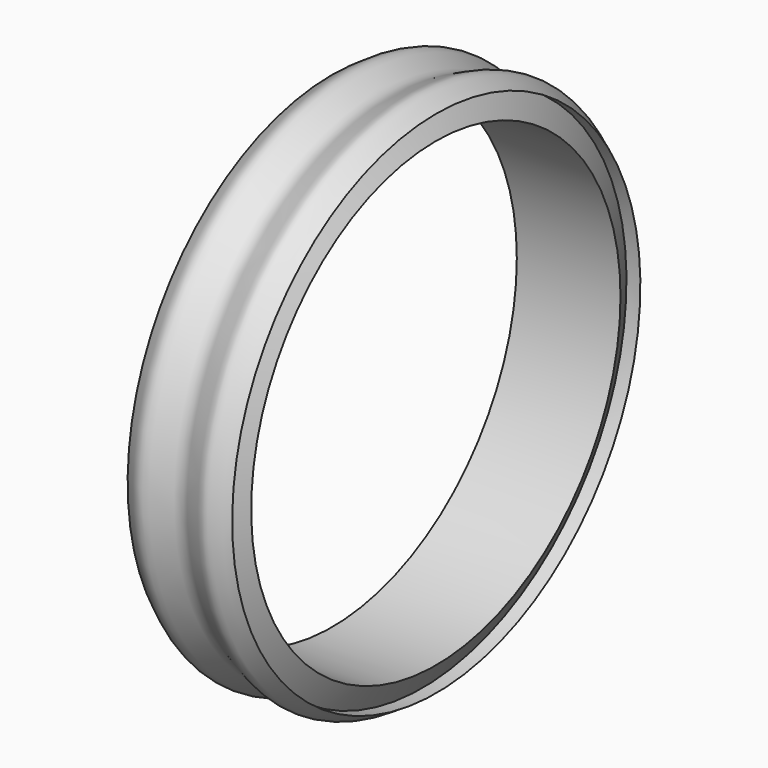
from build123d import *

# Parameters (mm, degrees)
F2_R     = 133
F3_DEPTH = 60


with BuildPart() as f1:
    # F0 (on Front) → F1 (revolve)
    with BuildSketch(Plane.XZ):
        with BuildLine():
            Line((-61.6794852866, 147), (-69.425451979, 133))
            Line((-69.425451979, 133), (-9.6794852866, 133))
            Line((-9.6794852866, 133), (-17.425451979, 147))
            Line((-17.425451979, 147), (-9.425451979, 147))
            add(Edge.make_bspline(
                [(-69.6794852866, 147), (-66.3762850947, 149.2210421429), (-57.0898794319, 157.7806772901), (-39.6441348496, 141.135346828), (-20.9994039535, 157.8532882541), (-13.9001461067, 149.0662106059), (-9.425451979, 147)],
                knots=[0, 0, 0, 0, 0.2298794127, 0.500963069, 0.7720467252, 1, 1, 1, 1], degree=3))
            Line((-69.6794852866, 147), (-61.6794852866, 147))
        make_face()
        Polygon((-9.6794852866, 133), (-69.425451979, 133), (-69.425451979, 0), (-9.425451979, 0), (-9.425451979, 133), align=None)
    revolve(axis=Axis((-39.425451979, 0, 0), (1, 0, 0)))

    # F2 (on face) → F3 (cut)
    with BuildSketch(Plane.YZ.offset(-9.425451979)):
        Circle(F2_R)
    extrude(amount=-F3_DEPTH, mode=Mode.SUBTRACT)


solid = f1.part
